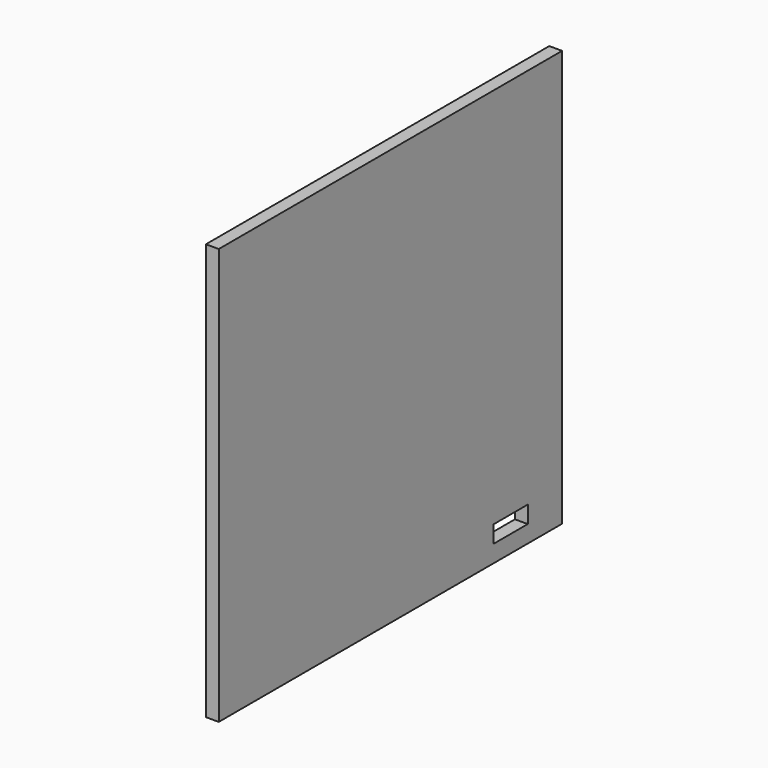
from build123d import *

# Parameters (mm, degrees)
F0_W     = 500
F0_H     = 485
F1_DEPTH = 15
F2_W     = 50
F2_H     = 20
F3_DEPTH = 15.001


with BuildPart() as f1:
    # F0 (on Right) → F1 (new body)
    with BuildSketch(Plane.YZ):
        Rectangle(F0_W, F0_H)
    extrude(amount=F1_DEPTH)

    # F2 (on face) → F3 (cut, through all)
    with BuildSketch(Plane.YZ.offset(15)):
        with Locations((175, -212.5)):
            Rectangle(F2_W, F2_H)
    extrude(amount=-F3_DEPTH, mode=Mode.SUBTRACT)


solid = f1.part
